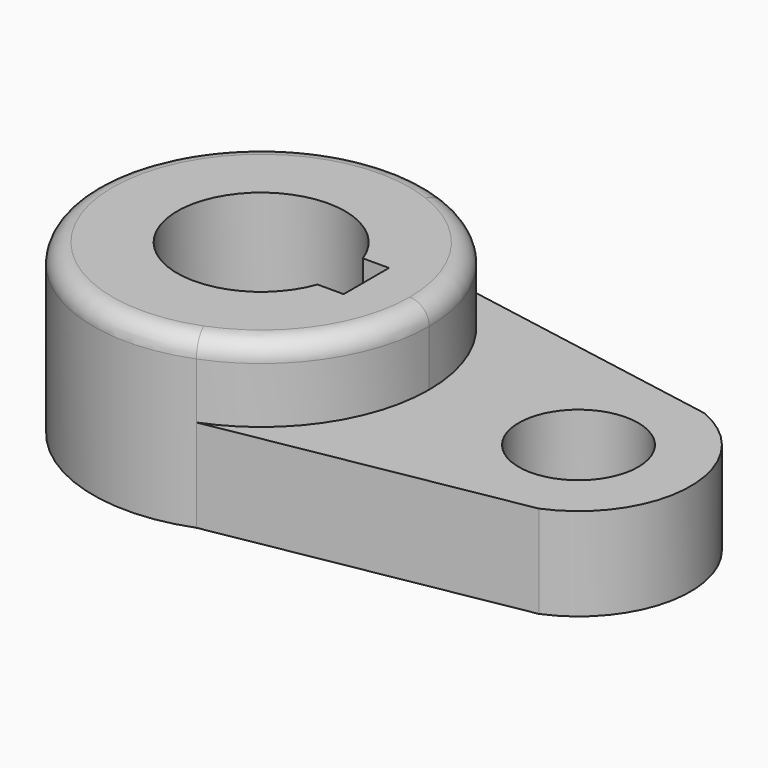
from build123d import *

# Parameters (mm, degrees)
F1_DEPTH = 28.575
F0_R     = 10.16
F2_DEPTH = 15.7734
F3_R     = 3.302


with BuildPart() as f1:
    # F0 (on Top) → F1 (new body)
    with BuildSketch(Plane.XY):
        with BuildLine():
            ThreePointArc((10.312698, -26.649182), (23.571338, -16.1531), (28.575, 0))
            ThreePointArc((28.575, 0), (23.571338, 16.1531), (10.312698, 26.649182))
            ThreePointArc((10.312698, 26.649182), (-28.575, 0), (10.312698, -26.649182))
        make_face()
        with BuildLine():
            ThreePointArc((13.447765, -4.826), (-14.2875, 0), (13.447765, 4.826))
            Line((13.447765, 4.826), (14.2875, 4.826))
            Line((14.2875, 4.826), (17.889793, 4.826))
            Line((17.889793, 4.826), (17.889793, -4.826))
            Line((17.889793, -4.826), (13.447765, -4.826))
        make_face(mode=Mode.SUBTRACT)
    extrude(amount=F1_DEPTH)

    # F0 (on Top) → F2 (join)
    with BuildSketch(Plane.XY):
        with BuildLine():
            ThreePointArc((10.312698, 26.649182), (23.571338, 16.1531), (28.575, 0))
            ThreePointArc((28.575, 0), (23.571338, -16.1531), (10.312698, -26.649182))
            Line((10.312698, -26.649182), (61.308758, -17.581766))
            ThreePointArc((61.308758, -17.581766), (73.025, 0), (61.308758, 17.581766))
            Line((61.308758, 17.581766), (10.312698, 26.649182))
        make_face()
        with Locations((53.975, 0)):
            Circle(F0_R, mode=Mode.SUBTRACT)
    extrude(amount=F2_DEPTH)

    # F3
    f3_edges = [f1.edges().sort_by_distance(p)[0] for p in [
        (-10.312698, 26.649182, 28.575),
    ]]
    fillet(f3_edges, radius=F3_R)


solid = f1.part
